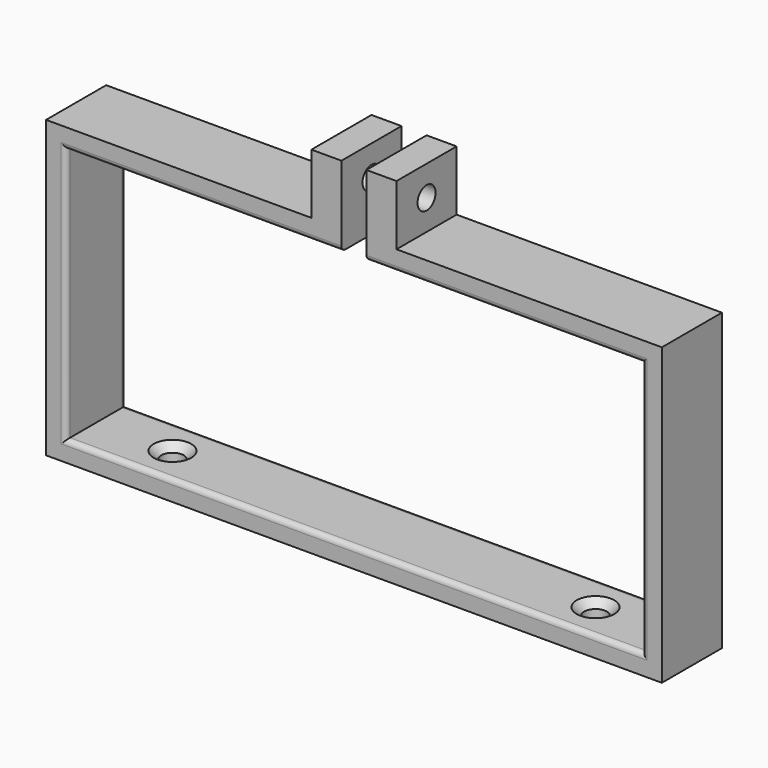
from build123d import *

# Parameters (mm, degrees)
F1_DEPTH = 15
F2_R     = 2.25
F3_DEPTH = 25
F4_R     = 2.25
F5_DEPTH = 5
F6_SIZE  = 1.5
F8_DEPTH = 1.5
F9_R     = 1


with BuildPart() as f1:
    # F0 (on Front) → F1 (new body)
    with BuildSketch(Plane.XZ):
        Polygon((-57.5, -25.5), (-57.5, 25.5), (-8.5, 25.5), (-2.5, 25.5), (-2.5, 41.5), (-8.5, 41.5), (-8.5, 29.5), (-61.5, 29.5), (-61.5, -29.5), (61.5, -29.5), (61.5, 29.5), (8.5, 29.5), (8.5, 41.5), (2.5, 41.5), (2.5, 25.5), (8.5, 25.5), (57.5, 25.5), (57.5, -25.5), align=None)
    extrude(amount=F1_DEPTH)

    # F2 (on face) → F3 (cut)
    with BuildSketch(Plane.YZ.offset(8.5)):
        with Locations((-7.5, 35.5)):
            Circle(F2_R)
    extrude(amount=-F3_DEPTH, mode=Mode.SUBTRACT)

    # F4 (on face) → F5 (cut)
    with BuildSketch(Plane(origin=(0, 0, -29.5), x_dir=(1, 0, 0), z_dir=(0, 0, -1))):
        with Locations((-42.25, 7.5)):
            Circle(F4_R)
        with Locations((42.25, 7.5)):
            Circle(F4_R)
    extrude(amount=-F5_DEPTH, mode=Mode.SUBTRACT)

    # F6
    f6_edges = [f1.edges().sort_by_distance(p)[0] for p in [
        (-44.5, -7.5, -25.5),
        (40, -7.5, -25.5),
    ]]
    chamfer(f6_edges, length=F6_SIZE)

    # F7 (on face) → F8 (cut)
    with BuildSketch(Plane(origin=(-8.5, 0, 0), x_dir=(0, -1, 0), z_dir=(-1, 0, 0))):
        Polygon((9.457997, 31.964525), (11.540809, 35.427938), (9.582812, 38.963412), (5.542003, 39.035475), (3.459191, 35.572062), (5.417188, 32.036588), align=None)
    extrude(amount=-F8_DEPTH, mode=Mode.SUBTRACT)

    # F9
    f9_edges = [f1.edges().sort_by_distance(p)[0] for p in [
        (30, 0, 25.5),
        (57.5, 0, 0),
        (-30, 0, 25.5),
        (-57.5, 0, 0),
        (0, 0, -25.5),
        (-30, -15, 25.5),
        (30, -15, 25.5),
        (-57.5, -15, 0),
        (0, -15, -25.5),
        (57.5, -15, 0),
    ]]
    fillet(f9_edges, radius=F9_R)


solid = f1.part
